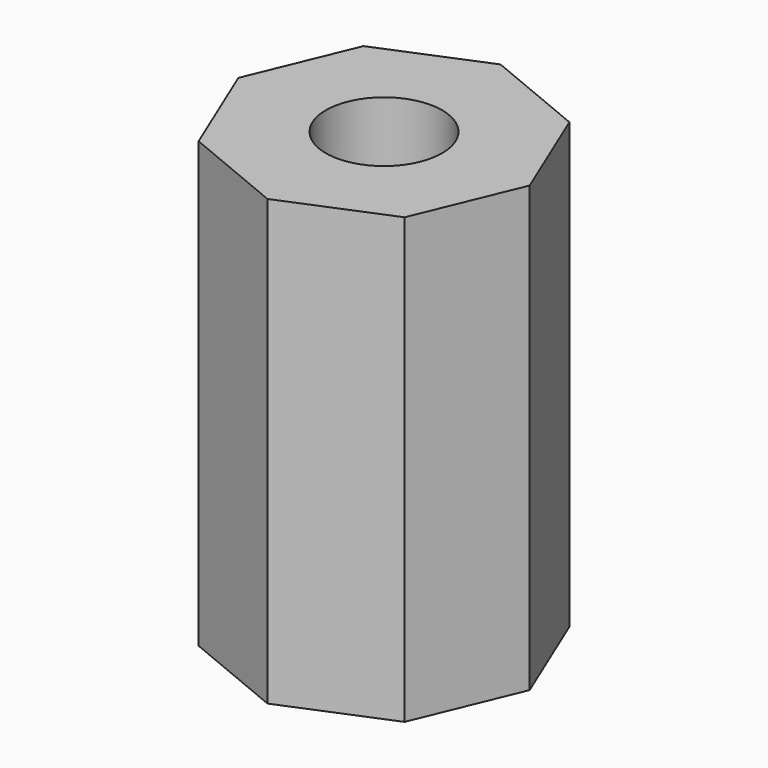
from build123d import *

# Parameters (mm, degrees)
F0_R     = 12.645379
F2_DEPTH = 96.52


with BuildPart() as f2:
    # F0 (on Top) → F2 (new body)
    with BuildSketch(Plane.XY):
        Polygon((22.379432, 22.379432), (0, 31.649296), (-22.379432, 22.379432), (-31.649296, 0), (-22.379432, -22.379432), (0, -31.649296), (22.379432, -22.379432), (31.649296, 0), align=None)
        Circle(F0_R, mode=Mode.SUBTRACT)
    extrude(amount=F2_DEPTH)


solid = f2.part
